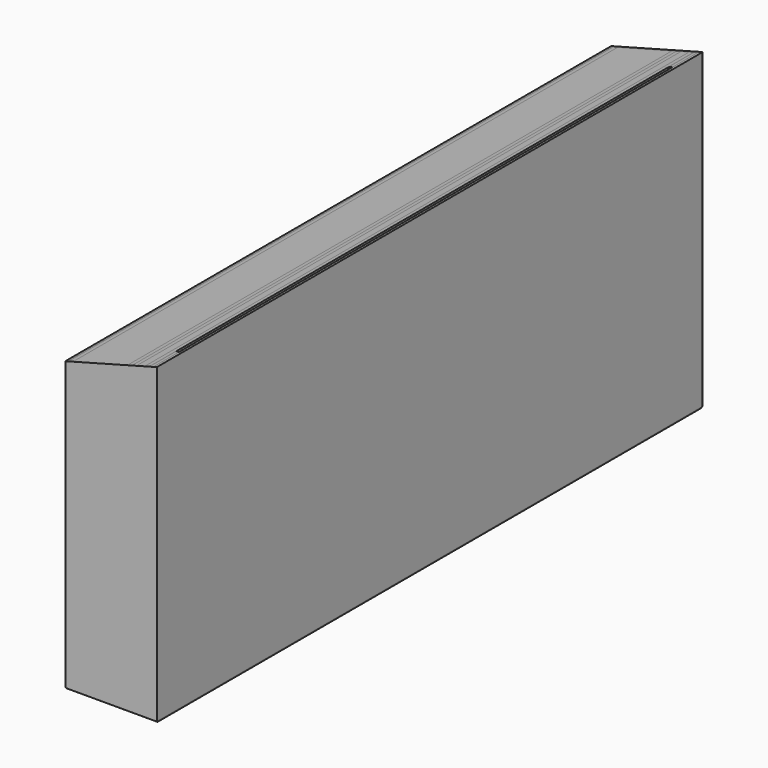
from build123d import *

# Parameters (mm, degrees)
F0_W      = 1500
F0_H      = 700
F1_DEPTH  = 6
F2_DEPTH  = 1
F3_DEPTH  = 10
F4_DEPTH  = 120
F5_DEPTH  = 10
F6_DEPTH  = 10
F7_DEPTH  = 18
F8_DEPTH  = 10
F9_DEPTH  = 1
F10_W     = 70
F10_H     = 700
F11_DEPTH = 8
F12_W     = 1500
F12_H     = 700
F13_DEPTH = 8
F14_W     = 202
F14_H     = 700
F15_DEPTH = 2
F16_W     = 202
F16_H     = 1500
F17_DEPTH = 2
F18_W     = 202
F18_H     = 700
F19_DEPTH = 2
F20_DEPTH = 2
F22_DEPTH = 1506.001


with BuildPart() as f1:
    # F0 (on Right) → F1 (new body)
    with BuildSketch(Plane.YZ):
        with Locations((750, 350)):
            Rectangle(F0_W, F0_H)
    extrude(amount=F1_DEPTH)


with BuildPart() as f2:
    # F2 (new): a face of the model
    f2_faces = [f1.part.faces().sort_by_distance(p)[0] for p in [
        (6, 750, 350),
    ]]
    extrude(f2_faces, amount=F2_DEPTH)


with BuildPart() as f3:
    # F3 (new): a face of the model
    f3_faces = [f2.part.faces().sort_by_distance(p)[0] for p in [
        (7, 750, 350),
    ]]
    extrude(f3_faces, amount=F3_DEPTH)


with BuildPart() as f4:
    # F4 (new): a face of the model
    f4_faces = [f3.part.faces().sort_by_distance(p)[0] for p in [
        (17, 750, 350),
    ]]
    extrude(f4_faces, amount=F4_DEPTH)


with BuildPart() as f5:
    # F5 (new): a face of the model
    f5_faces = [f4.part.faces().sort_by_distance(p)[0] for p in [
        (137, 750, 350),
    ]]
    extrude(f5_faces, amount=F5_DEPTH)


with BuildPart() as f6:
    # F6 (new): a face of the model
    f6_faces = [f5.part.faces().sort_by_distance(p)[0] for p in [
        (147, 750, 350),
    ]]
    extrude(f6_faces, amount=F6_DEPTH)


with BuildPart() as f7:
    # F7 (new): a face of the model
    f7_faces = [f6.part.faces().sort_by_distance(p)[0] for p in [
        (157, 750, 350),
    ]]
    extrude(f7_faces, amount=F7_DEPTH)


with BuildPart() as f8:
    # F8 (new): a face of the model
    f8_faces = [f7.part.faces().sort_by_distance(p)[0] for p in [
        (175, 750, 350),
    ]]
    extrude(f8_faces, amount=F8_DEPTH)


with BuildPart() as f9:
    # F9 (new): a face of the model
    f9_faces = [f8.part.faces().sort_by_distance(p)[0] for p in [
        (185, 750, 350),
    ]]
    extrude(f9_faces, amount=F9_DEPTH)


with BuildPart() as f11:
    # F10 (on face) → F11 (new body)
    with BuildSketch(Plane.YZ.offset(186)):
        with Locations((35, 350)):
            Rectangle(F10_W, F10_H)
    extrude(amount=F11_DEPTH)


with BuildPart() as f11b:
    # F10 (on face) → F11, piece 2 (new body)
    with BuildSketch(Plane.YZ.offset(186)):
        with Locations((1465, 350)):
            Rectangle(F10_W, F10_H)
    extrude(amount=F11_DEPTH)


with BuildPart() as f13:
    # F12 (on face) → F13 (new body)
    with BuildSketch(Plane.YZ.offset(194)):
        with Locations((750, 350)):
            Rectangle(F12_W, F12_H)
    extrude(amount=F13_DEPTH)


with BuildPart() as f15:
    # F14 (on face) → F15 (new body)
    with BuildSketch(Plane.XZ):
        with Locations((101, 350)):
            Rectangle(F14_W, F14_H)
    extrude(amount=F15_DEPTH)


with BuildPart() as f17:
    # F16 (on face) → F17 (new body)
    with BuildSketch(Plane(origin=(0, 0, 0), x_dir=(1, 0, 0), z_dir=(0, 0, -1))):
        with Locations((101, -750)):
            Rectangle(F16_W, F16_H)
    extrude(amount=F17_DEPTH)


with BuildPart() as f19:
    # F18 (on face) → F19 (new body)
    with BuildSketch(Plane(origin=(0, 1500, 0), x_dir=(-1, 0, 0), z_dir=(0, 1, 0))):
        with Locations((-101, 350)):
            Rectangle(F18_W, F18_H)
    extrude(amount=F19_DEPTH)

    # F20 (add): a face of the model
    f20_faces = [f19.faces().sort_by_distance(p)[0] for p in [
        (101, 1502, 350),
    ]]
    extrude(f20_faces, amount=F20_DEPTH)


with BuildPart() as f22_tool:
    # F21 (on face) → F22 (new body, through all)
    with BuildSketch(Plane.XZ.offset(2)):
        Polygon((202, 688.1257368711), (202, 700), (0, 700), (0, 634), align=None)
    extrude(amount=-F22_DEPTH)


with BuildPart() as f1_1:
    add(f1.part)

    # F22: cut by f22_tool
    add(f22_tool.part, mode=Mode.SUBTRACT)


with BuildPart() as f2_1:
    add(f2.part)

    # F22: cut by f22_tool
    add(f22_tool.part, mode=Mode.SUBTRACT)


with BuildPart() as f3_1:
    add(f3.part)

    # F22: cut by f22_tool
    add(f22_tool.part, mode=Mode.SUBTRACT)


with BuildPart() as f4_1:
    add(f4.part)

    # F22: cut by f22_tool
    add(f22_tool.part, mode=Mode.SUBTRACT)


with BuildPart() as f5_1:
    add(f5.part)

    # F22: cut by f22_tool
    add(f22_tool.part, mode=Mode.SUBTRACT)


with BuildPart() as f6_1:
    add(f6.part)

    # F22: cut by f22_tool
    add(f22_tool.part, mode=Mode.SUBTRACT)


with BuildPart() as f7_1:
    add(f7.part)

    # F22: cut by f22_tool
    add(f22_tool.part, mode=Mode.SUBTRACT)


with BuildPart() as f8_1:
    add(f8.part)

    # F22: cut by f22_tool
    add(f22_tool.part, mode=Mode.SUBTRACT)


with BuildPart() as f9_1:
    add(f9.part)

    # F22: cut by f22_tool
    add(f22_tool.part, mode=Mode.SUBTRACT)


with BuildPart() as f11_1:
    add(f11.part)

    # F22: cut by f22_tool
    add(f22_tool.part, mode=Mode.SUBTRACT)


with BuildPart() as f11b_1:
    add(f11b.part)

    # F22: cut by f22_tool
    add(f22_tool.part, mode=Mode.SUBTRACT)


with BuildPart() as f13_1:
    add(f13.part)

    # F22: cut by f22_tool
    add(f22_tool.part, mode=Mode.SUBTRACT)


with BuildPart() as f15_1:
    add(f15.part)

    # F22: cut by f22_tool
    add(f22_tool.part, mode=Mode.SUBTRACT)


with BuildPart() as f19_1:
    add(f19.part)

    # F22: cut by f22_tool
    add(f22_tool.part, mode=Mode.SUBTRACT)


solid = Compound([f17.part, f1_1.part, f2_1.part, f3_1.part, f4_1.part, f5_1.part, f6_1.part, f7_1.part, f8_1.part, f9_1.part, f11_1.part, f11b_1.part, f13_1.part, f15_1.part, f19_1.part])
